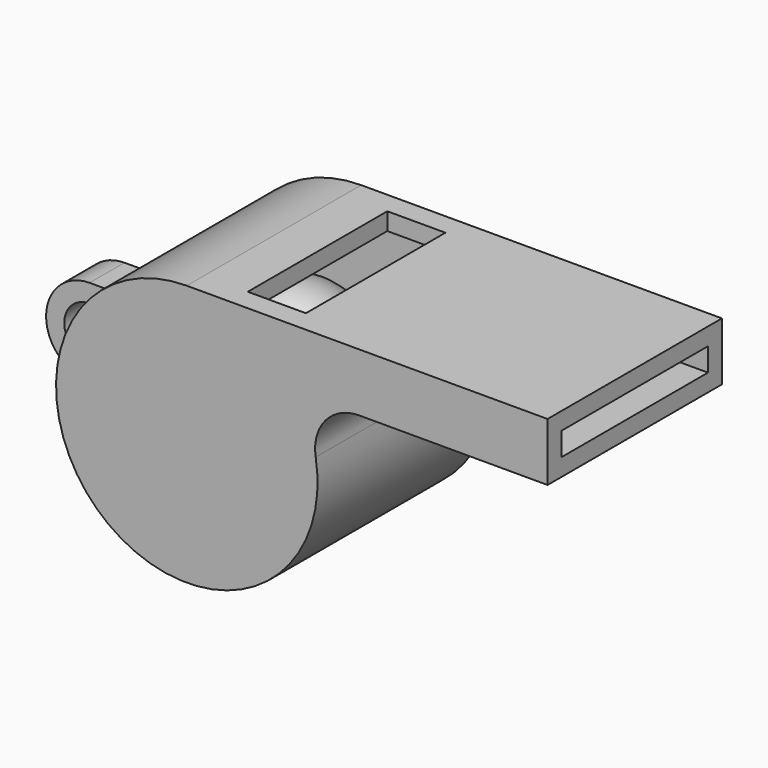
from build123d import *

# Parameters (mm, degrees)
F1_DEPTH = 7.5
F2_T     = -1.2
F3_W     = 4
F3_H     = 1.2
F4_DEPTH = 6
F5_R     = 1.75
F6_DEPTH = 1.5


with BuildPart() as f1:
    # F0 (on Front) → F1 (new body, symmetric)
    with BuildSketch(Plane.XZ):
        with BuildLine():
            Line((24.83216, 9), (0, 9))
            ThreePointArc((0, 9), (-5.809475, -6.873864), (8.87412, 1.5))
            ThreePointArc((8.87412, 1.5), (9.540872, 3.936492), (11.83216, 5))
            Line((11.83216, 5), (24.83216, 5))
            Line((24.83216, 5), (24.83216, 9))
        make_face()
    extrude(amount=F1_DEPTH, both=True)

    # F2
    f2_openings = [f1.faces().sort_by_distance(p)[0] for p in [
        (24.83216, 0, 7),
    ]]
    offset(amount=F2_T, openings=f2_openings)

    # F3 (on Front) → F4 (cut, symmetric)
    with BuildSketch(Plane.XZ):
        with Locations((5, 8.4)):
            Rectangle(F3_W, F3_H)
    extrude(amount=F4_DEPTH, both=True, mode=Mode.SUBTRACT)

    # F5 (on Front) → F6 (join, symmetric)
    with BuildSketch(Plane.XZ):
        with BuildLine():
            Line((-8.485281, 3), (-11.485281, 3))
            ThreePointArc((-11.485281, 3), (-14.485281, 0), (-11.485281, -3))
            Line((-11.485281, -3), (-8.485281, -3))
            Line((-8.485281, -3), (-8.485281, 3))
        make_face()
        with Locations((-11.485281, 0)):
            Circle(F5_R, mode=Mode.SUBTRACT)
    extrude(amount=F6_DEPTH, both=True)


with BuildPart() as f8:
    # F7 (on Front) → F8 (revolve)
    with BuildSketch(Plane.XZ):
        with BuildLine():
            Line((0, 2.2), (0, -7.8))
            ThreePointArc((0, -7.8), (5, -2.8), (0, 2.2))
        make_face()
    revolve(axis=Axis((0, 0, -2.8), (0, 0, -1)))


with BuildPart() as f8_1:
    # F9: moved
    add(f8.part.moved(Location((0, 1.3, 3.5))))


solid = Compound([f1.part, f8_1.part])
